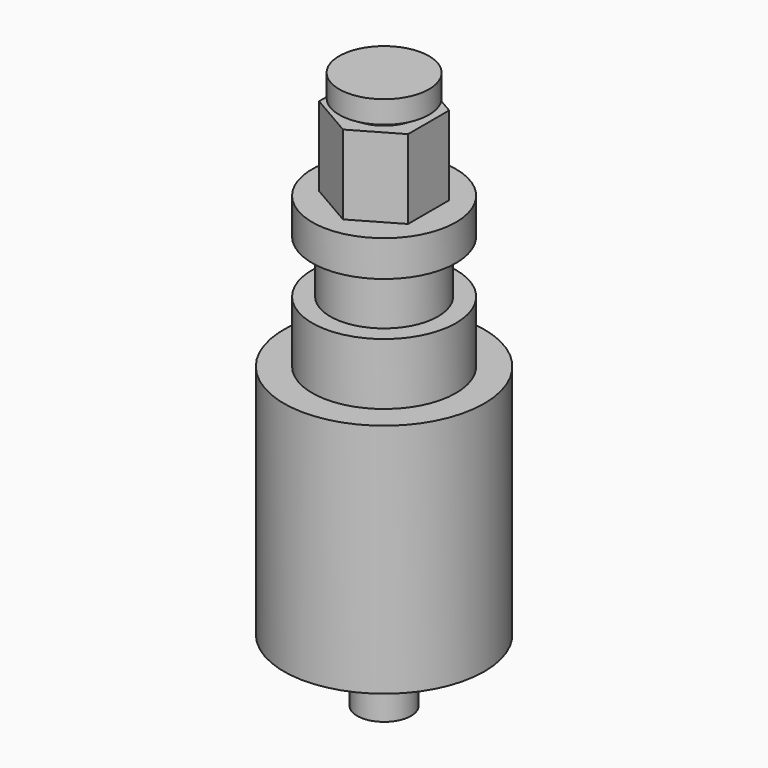
from build123d import *

# Parameters (mm, degrees)
F0_R      = 3
F1_DEPTH  = 7
F2_R      = 11.15
F3_DEPTH  = 26.25
F4_R      = 8
F5_DEPTH  = 6.85
F6_R      = 6
F7_DEPTH  = 5.88
F8_R      = 8
F9_DEPTH  = 4
F11_DEPTH = 8.8
F12_R     = 3.75
F13_DEPTH = 0.75
F14_R     = 5
F15_DEPTH = 2.5


with BuildPart() as f1:
    # F0 (on Top) → F1 (new body)
    with BuildSketch(Plane.XY):
        Circle(F0_R)
    extrude(amount=F1_DEPTH)

    # F2 (on face) → F3 (join)
    with BuildSketch(Plane.XY.offset(7)):
        Circle(F2_R)
    extrude(amount=F3_DEPTH)

    # F4 (on face) → F5 (join)
    with BuildSketch(Plane.XY.offset(33.25)):
        Circle(F4_R)
    extrude(amount=F5_DEPTH)

    # F6 (on face) → F7 (join)
    with BuildSketch(Plane.XY.offset(40.1)):
        Circle(F6_R)
    extrude(amount=F7_DEPTH)

    # F8 (on face) → F9 (join)
    with BuildSketch(Plane.XY.offset(45.98)):
        Circle(F8_R)
    extrude(amount=F9_DEPTH)

    # F10 (on face) → F11 (join)
    with BuildSketch(Plane.XY.offset(49.98)):
        Polygon((-4.95, 2.8578838325), (-4.95, -2.8578838325), (0, -5.715767665), (4.95, -2.8578838325), (4.95, 2.8578838325), (0, 5.715767665), align=None)
    extrude(amount=F11_DEPTH)

    # F12 (on face) → F13 (join)
    with BuildSketch(Plane.XY.offset(58.78)):
        Circle(F12_R)
    extrude(amount=F13_DEPTH)

    # F14 (on face) → F15 (join)
    with BuildSketch(Plane.XY.offset(59.53)):
        Circle(F14_R)
    extrude(amount=F15_DEPTH)


solid = f1.part
